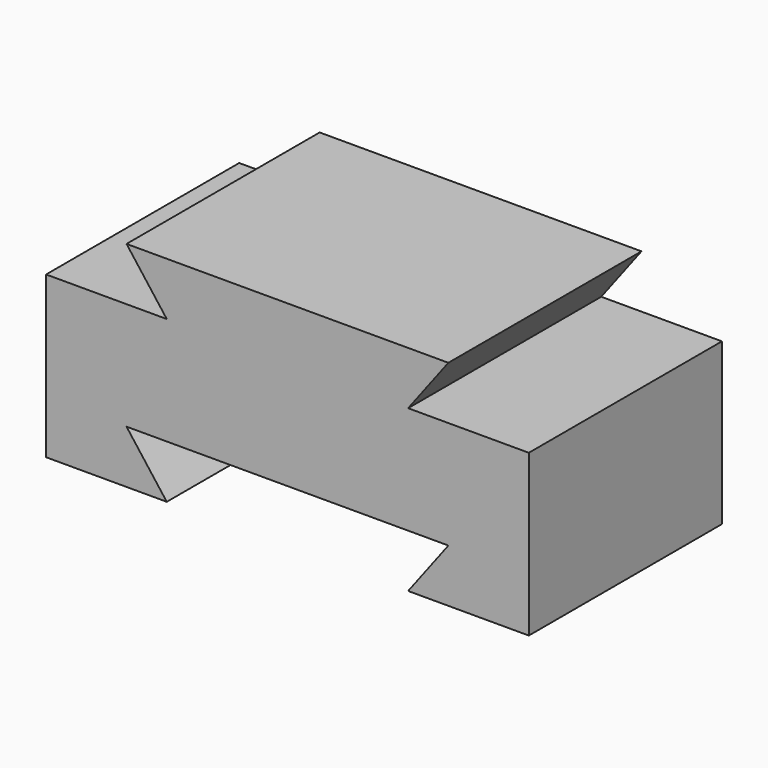
from build123d import *

# Parameters (mm, degrees)
F1_DEPTH = 76.2


with BuildPart() as f1:
    # F0 (on Front) → F1 (new body)
    with BuildSketch(Plane.XZ):
        Polygon((-38.1, 25.4), (-76.2, 25.4), (-76.2, -25.4), (-38.1, -25.4), (-50.8, -8.636308), (50.8, -8.636308), (38.1, -25.4), (76.2, -25.4), (76.2, 25.4), (38.1, 25.4), align=None)
        Polygon((-50.8, 42.153515), (-38.1, 25.4), (38.1, 25.4), (50.8, 42.153515), align=None)
    extrude(amount=F1_DEPTH)


solid = f1.part
